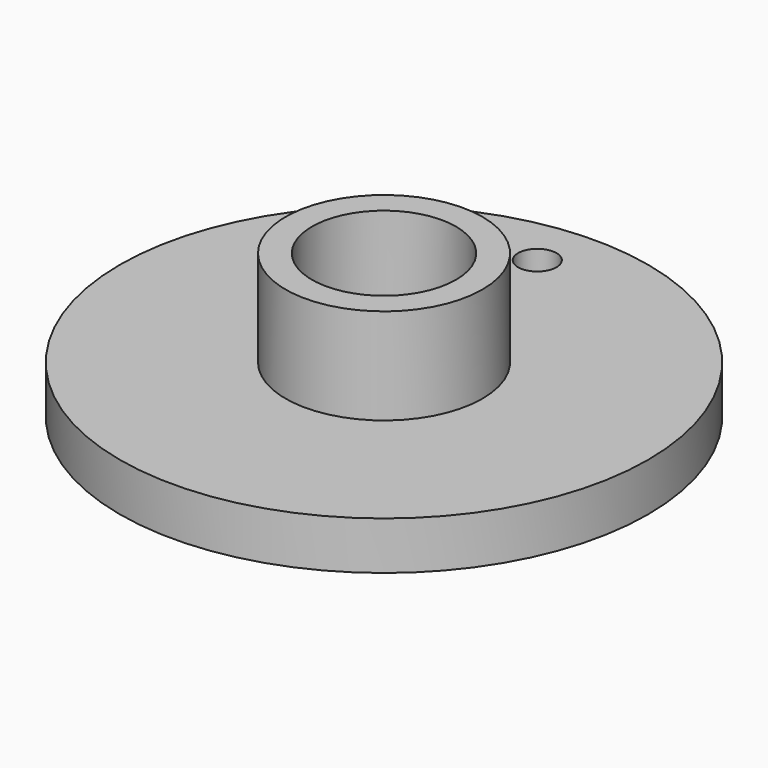
from build123d import *

# Parameters (mm, degrees)
F0_R     = 13.97
F0_R_2   = 1.016
F0_R_3   = 5.207
F1_DEPTH = 2.54
F0_R_4   = 3.81
F2_DEPTH = 7.62


with BuildPart() as f1:
    # F0 (on Top) → F1 (new body)
    with BuildSketch(Plane.XY):
        with Locations((-56.137003, 35.691313)):
            Circle(F0_R)
        with Locations((-56.899514, 46.778247)):
            Circle(F0_R_2, mode=Mode.SUBTRACT)
        with Locations((-56.137003, 35.691313)):
            Circle(F0_R_3, mode=Mode.SUBTRACT)
    extrude(amount=F1_DEPTH)

    # F0 (on Top) → F2 (join)
    with BuildSketch(Plane.XY):
        with Locations((-56.137003, 35.691313)):
            Circle(F0_R_3)
        with Locations((-56.137003, 35.691313)):
            Circle(F0_R_4, mode=Mode.SUBTRACT)
    extrude(amount=F2_DEPTH)


solid = f1.part
